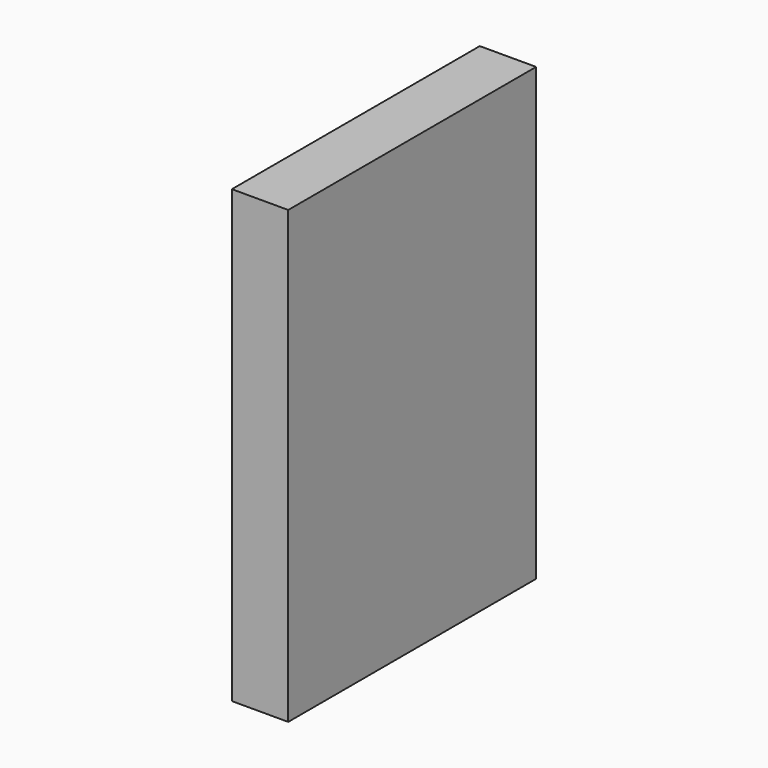
from build123d import *

# Parameters (mm, degrees)
F0_W     = 34.925
F0_H     = 50.8
F1_DEPTH = 3.175
F3_D     = 2.2606
F3_DEPTH = 27.305
F3_TIP   = 0.6791527577


with BuildPart() as f1:
    # F0 (on Right) → F1 (new body, symmetric)
    with BuildSketch(Plane.YZ):
        Rectangle(F0_W, F0_H)
    extrude(amount=F1_DEPTH, both=True)

    # F3
    with Locations(Plane(origin=(0, 0, -25.4), x_dir=(1, 0, 0), z_dir=(0, 0, -1))):
        with Locations((0, 12.7), (0, -12.7)):
            Hole(F3_D / 2, depth=F3_DEPTH)
            with Locations((0, 0, -(F3_DEPTH + F3_TIP / 2))):  # 118° drill point
                Cone(0, F3_D / 2, F3_TIP, mode=Mode.SUBTRACT)


solid = f1.part
